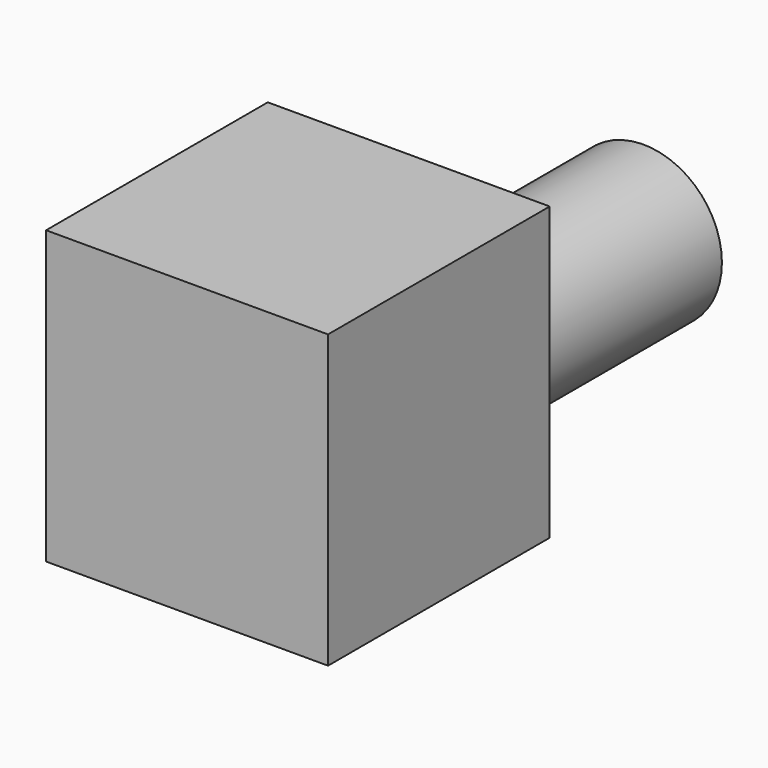
from build123d import *

# Parameters (mm, degrees)
F0_W     = 89.622184
F0_H     = 92.715051
F1_DEPTH = 88.079302
F2_R     = 24.954129
F3_DEPTH = 179.480271


with BuildPart() as f1:
    # F0 (on Front) → F1 (new body)
    with BuildSketch(Plane.XZ):
        with Locations((-1.479607, 12.499084)):
            Rectangle(F0_W, F0_H)
    extrude(amount=F1_DEPTH)

    # F2 (on face) → F3 (join)
    with BuildSketch(Plane.XZ.offset(88.079302)):
        Circle(F2_R)
    extrude(amount=-F3_DEPTH)


solid = f1.part
